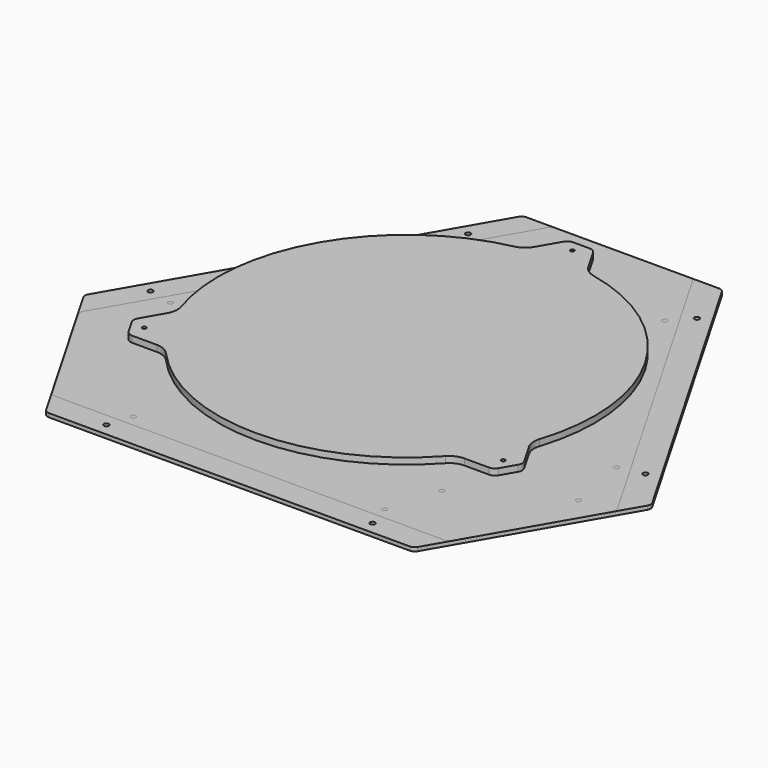
from build123d import *

# Parameters (mm, degrees)
SKETCH_R      = 1.5
PAD_DEPTH     = 5
FILLET_R      = 15
FILLET001_R   = 6
SKETCH001_R   = 10
SKETCH001_R_2 = 1.5
SKETCH001_R_3 = 2
PAD001_DEPTH  = 3
FILLET002_R   = 5
SKETCH002_R   = 2
SKETCH002_R_2 = 1.7
SKETCH002_R_3 = 2.2
PAD002_DEPTH  = 3
FILLET003_R   = 5


with BuildPart() as build_plate:
    # Sketch → Pad (new body)
    with BuildSketch(Plane.XY.offset(20)):
        with BuildLine():
            ThreePointArc((-25, 147.901995), (-129.903811, 75), (-140.586885, -52.300362))
            Line((-140.586885, -52.300362), (-155.586885, -78.281124))
            Line((-155.586885, -78.281124), (-145.586885, -95.601632))
            Line((-145.586885, -95.601632), (-115.586885, -95.601632))
            ThreePointArc((-115.586885, -95.601632), (0, -150), (115.586885, -95.601632))
            Line((115.586885, -95.601632), (145.586885, -95.601632))
            Line((145.586885, -95.601632), (155.586885, -78.281124))
            Line((155.586885, -78.281124), (140.586885, -52.300362))
            ThreePointArc((140.586885, -52.300362), (129.903811, 75), (25, 147.901995))
            Line((10, 173.882757), (25, 147.901995))
            Line((-10, 173.882757), (10, 173.882757))
            Line((-25, 147.901995), (-10, 173.882757))
        make_face()
        with Locations((-142.894192, -82.5)):
            Circle(SKETCH_R, mode=Mode.SUBTRACT)
        with Locations((142.894192, -82.5)):
            Circle(SKETCH_R, mode=Mode.SUBTRACT)
        with Locations((0, 165)):
            Circle(SKETCH_R, mode=Mode.SUBTRACT)
    extrude(amount=PAD_DEPTH)

    # Fillet
    fillet_edges = [build_plate.edges().sort_by_distance(p)[0] for p in [
        (-25, 147.901995, 22.5),
        (-140.586885, -52.300362, 22.5),
        (-115.586885, -95.601632, 22.5),
        (115.586885, -95.601632, 22.5),
        (140.586885, -52.300362, 22.5),
        (25, 147.901995, 22.5),
    ]]
    fillet(fillet_edges, radius=FILLET_R)

    # Fillet001
    fillet001_edges = [build_plate.edges().sort_by_distance(p)[0] for p in [
        (-10, 173.882757, 22.5),
        (-155.586885, -78.281124, 22.5),
        (10, 173.882757, 22.5),
        (-145.586885, -95.601632, 22.5),
        (155.586885, -78.281124, 22.5),
        (145.586885, -95.601632, 22.5),
    ]]
    fillet(fillet001_edges, radius=FILLET001_R)


with BuildPart() as cover_plate:
    # Sketch001 → Pad001 (new body)
    with BuildSketch(Plane.XY):
        Polygon((146.5, -176.380507), (226, -38.682468), (79.5, 215.062975), (-79.5, 215.062975), (-226, -38.682468), (-146.5, -176.380507), align=None)
        Circle(SKETCH001_R, mode=Mode.SUBTRACT)
        with Locations((-142.894192, -82.5)):
            Circle(SKETCH001_R_2, mode=Mode.SUBTRACT)
        with Locations((142.894192, -82.5)):
            Circle(SKETCH001_R_2, mode=Mode.SUBTRACT)
        with Locations((0, 165)):
            Circle(SKETCH001_R_2, mode=Mode.SUBTRACT)
        with Locations((-197.089746, -8.608439)):
            Circle(SKETCH001_R_3, mode=Mode.SUBTRACT)
        with Locations((-91.089746, 174.988946)):
            Circle(SKETCH001_R_3, mode=Mode.SUBTRACT)
        with Locations((91.089746, 174.988946)):
            Circle(SKETCH001_R_3, mode=Mode.SUBTRACT)
        with Locations((197.089746, -8.608439)):
            Circle(SKETCH001_R_3, mode=Mode.SUBTRACT)
        with Locations((-106, -166.380507)):
            Circle(SKETCH001_R_3, mode=Mode.SUBTRACT)
        with Locations((106, -166.380507)):
            Circle(SKETCH001_R_3, mode=Mode.SUBTRACT)
    extrude(amount=PAD001_DEPTH)

    # Fillet002
    fillet002_edges = [cover_plate.edges().sort_by_distance(p)[0] for p in [
        (-226, -38.682468, 1.5),
        (-146.5, -176.380507, 1.5),
        (146.5, -176.380507, 1.5),
        (226, -38.682468, 1.5),
        (79.5, 215.062975, 1.5),
        (-79.5, 215.062975, 1.5),
    ]]
    fillet(fillet002_edges, radius=FILLET002_R)


with BuildPart() as electronics_plate:
    # Sketch002 → Pad002 (new body)
    with BuildSketch(Plane.XY):
        Polygon((-56.5, 214.485625), (56.5, 214.485625), (214, -58.312377), (157.5, -156.173248), (-157.5, -156.173248), (-214, -58.312377), align=None)
        with Locations((-100, -147.173248)):
            Circle(SKETCH002_R, mode=Mode.SUBTRACT)
        with Locations((100, -147.173248)):
            Circle(SKETCH002_R, mode=Mode.SUBTRACT)
        with Locations((-177.455771, -13.015916)):
            Circle(SKETCH002_R, mode=Mode.SUBTRACT)
        with Locations((-77.455771, 160.189164)):
            Circle(SKETCH002_R, mode=Mode.SUBTRACT)
        with Locations((77.455771, 160.189164)):
            Circle(SKETCH002_R, mode=Mode.SUBTRACT)
        with Locations((177.455771, -13.015916)):
            Circle(SKETCH002_R, mode=Mode.SUBTRACT)
        with Locations((112.325663, -105.312377)):
            Circle(SKETCH002_R, mode=Mode.SUBTRACT)
        with Locations((186.803848, -62.312377)):
            Circle(SKETCH002_R, mode=Mode.SUBTRACT)
        with Locations((-108.303848, 62.544973)):
            Circle(SKETCH002_R_2, mode=Mode.SUBTRACT)
        with Locations((-68.457695, 117.349418)):
            Circle(SKETCH002_R_3, mode=Mode.SUBTRACT)
        with Locations((-44.707695, 158.485625)):
            Circle(SKETCH002_R_3, mode=Mode.SUBTRACT)
        with Locations((49.325663, 3.806824)):
            Circle(SKETCH002_R, mode=Mode.SUBTRACT)
        with Locations((123.803848, 46.806824)):
            Circle(SKETCH002_R, mode=Mode.SUBTRACT)
        with Locations((-154.553848, -17.562377)):
            Circle(SKETCH002_R_2, mode=Mode.SUBTRACT)
        with Locations((-111.252577, -42.562377)):
            Circle(SKETCH002_R_2, mode=Mode.SUBTRACT)
        with Locations((-65.002577, 37.544973)):
            Circle(SKETCH002_R_2, mode=Mode.SUBTRACT)
    extrude(amount=PAD002_DEPTH)

    # Fillet003
    fillet003_edges = [electronics_plate.edges().sort_by_distance(p)[0] for p in [
        (-214, -58.312377, 1.5),
        (-56.5, 214.485625, 1.5),
        (56.5, 214.485625, 1.5),
        (214, -58.312377, 1.5),
        (157.5, -156.173248, 1.5),
        (-157.5, -156.173248, 1.5),
    ]]
    fillet(fillet003_edges, radius=FILLET003_R)


solid = Compound([build_plate.part, cover_plate.part, electronics_plate.part])
